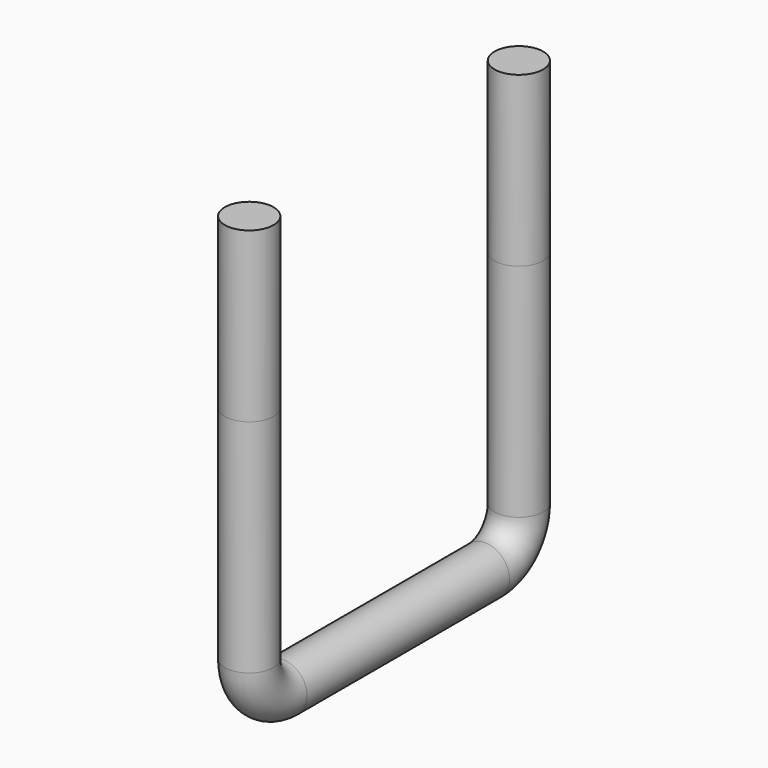
from build123d import *

# Parameters (mm, degrees)
F1_R       = 3.664139
F2_FACE_R  = 3.664139
F2_FACE1_R = 3.664139
F3_DEPTH   = 25.4


with BuildPart() as f2:
    # F2: sweep along a path in F0
    with BuildLine(Plane.YZ) as f2_path:
        Line((0, 0), (0, -33.314004))
        ThreePointArc((0, -33.314004), (-1.859872, -37.804132), (-6.35, -39.664004))
        Line((-6.35, -39.664004), (-44.45, -39.664004))
        ThreePointArc((-44.45, -39.664004), (-48.940128, -37.804132), (-50.8, -33.314004))
        Line((-50.8, -33.314004), (-50.8, 0))
    # F1 (on Top) → F2 (sweep)
    with BuildSketch(Plane.XY):
        Circle(F1_R)
    sweep(path=f2_path.line)

    # F2_face (on face) + F2_face1 (on face) → F3 (join)
    with BuildSketch(Plane.XY):
        Circle(F2_FACE_R)
        Circle(F2_FACE_R)
    with BuildSketch(Plane(origin=(0, -50.8, 0), x_dir=(1, 0, 0), z_dir=(0, 0, 1))):
        Circle(F2_FACE1_R)
        Circle(F2_FACE1_R)
    extrude(amount=F3_DEPTH)


solid = f2.part
